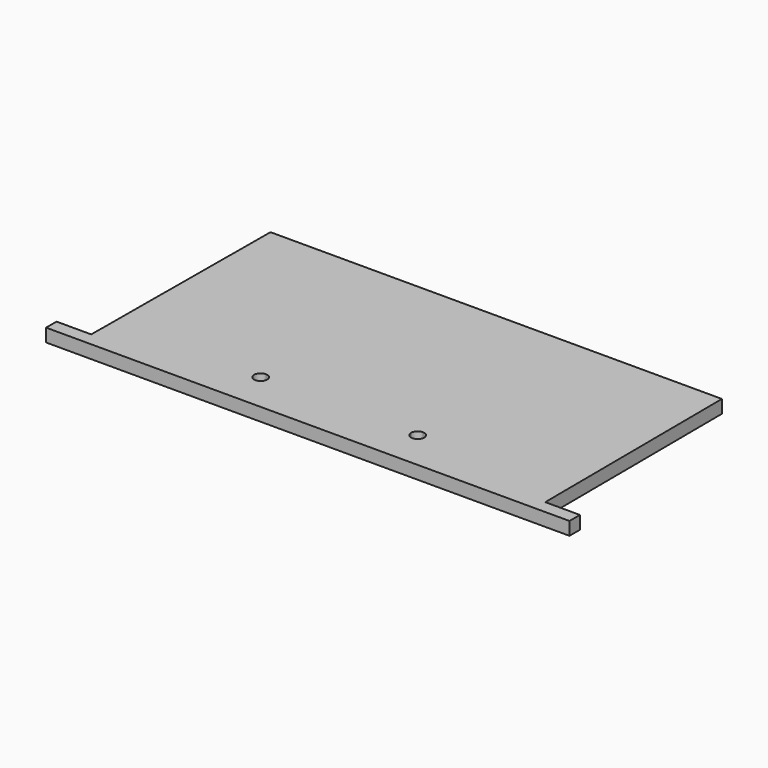
from build123d import *

# Parameters (mm, degrees)
F1_DEPTH = 10


with BuildPart() as f1:
    # F0 (on Top) → F1 (new body)
    with BuildSketch(Plane.XY):
        Polygon((173.5, -80), (172.5, 90), (-172.5, 90), (-173.5, -80), (-200, -80), (-200, -90), (200, -90), (200, -80), align=None)
        with BuildLine():
            Line((55, -60), (-55, -60))
            ThreePointArc((-55, -60), (-63.535534, -63.535534), (-60, -55))
            Line((-60, -55), (-60, 60))
            Line((-60, 60), (60, 60))
            Line((60, 60), (60, -55))
            ThreePointArc((60, -55), (63.535534, -56.464466), (65, -60))
            ThreePointArc((65, -60), (60, -65), (55, -60))
        make_face(mode=Mode.SUBTRACT)
        with BuildLine():
            ThreePointArc((-60, -55), (-56.464466, -56.464466), (-55, -60))
            Line((-55, -60), (55, -60))
            ThreePointArc((55, -60), (56.464466, -56.464466), (60, -55))
            Line((60, -55), (60, 60))
            Line((60, 60), (-60, 60))
            Line((-60, 60), (-60, -55))
        make_face()
    extrude(amount=F1_DEPTH)


solid = f1.part
